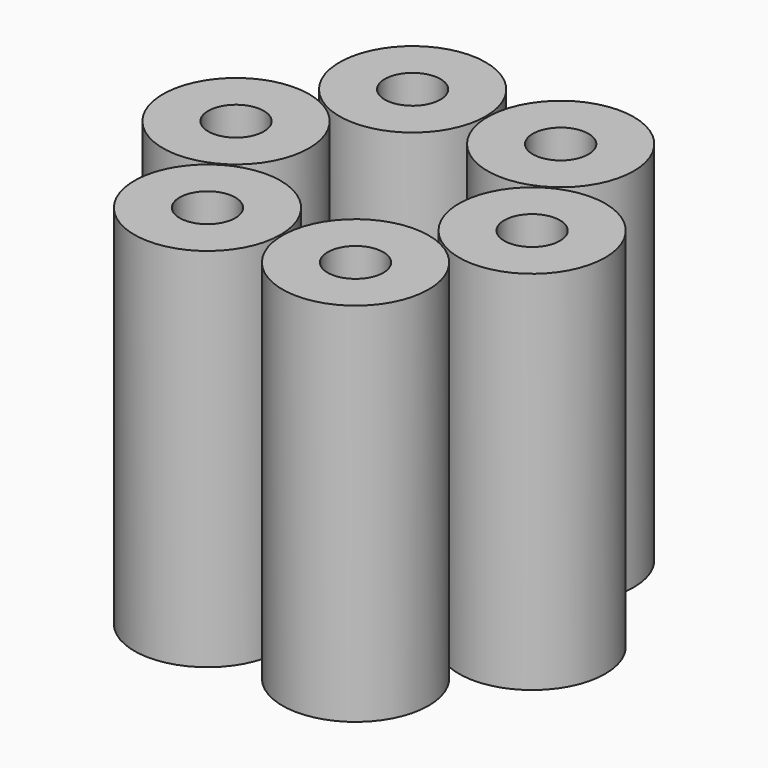
from build123d import *

# Parameters (mm, degrees)
F0_R     = 4.99
F0_R_2   = 1.9
F1_DEPTH = 25


with BuildPart() as f1:
    # F0 (on Top) → F1 (new body)
    with BuildSketch(Plane.XY):
        with Locations((10.1, 0)):
            Circle(F0_R)
        with Locations((10.1, 0)):
            Circle(F0_R_2, mode=Mode.SUBTRACT)
        with Locations((5.05, 8.746857)):
            Circle(F0_R)
        with Locations((5.05, 8.746857)):
            Circle(F0_R_2, mode=Mode.SUBTRACT)
        with Locations((-5.05, 8.746857)):
            Circle(F0_R)
        with Locations((-5.05, 8.746857)):
            Circle(F0_R_2, mode=Mode.SUBTRACT)
        with Locations((-10.1, 0)):
            Circle(F0_R)
        with Locations((-10.1, 0)):
            Circle(F0_R_2, mode=Mode.SUBTRACT)
        with Locations((-5.05, -8.746857)):
            Circle(F0_R)
        with Locations((-5.05, -8.746857)):
            Circle(F0_R_2, mode=Mode.SUBTRACT)
        with Locations((5.05, -8.746857)):
            Circle(F0_R)
        with Locations((5.05, -8.746857)):
            Circle(F0_R_2, mode=Mode.SUBTRACT)
    extrude(amount=F1_DEPTH)


solid = f1.part
